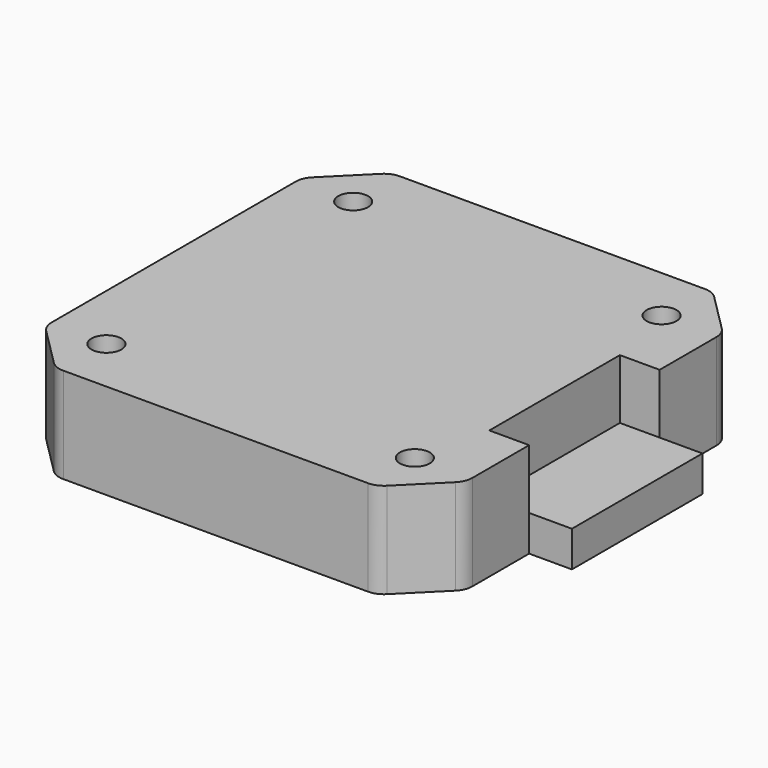
from build123d import *

# Parameters (mm, degrees)
SKETCH042_W         = 42.3
SKETCH042_H         = 42.3
PAD020_DEPTH        = 9.6
SKETCH044_W         = 4.3
SKETCH044_H         = 16.4
PAD017_DEPTH        = 3.6
CHAMFER011_SIZE     = 5
FILLET008_R         = 2
HOLE001_D           = 3
HOLE001_DEPTH       = 25
HOLE001_CBORE_D     = 5
HOLE001_CBORE_DEPTH = 5
SKETCH059_W         = 16.4
SKETCH059_H         = 6
POCKET017_DEPTH     = 4


with BuildPart() as part:
    # Sketch042 → Pad020 (new body)
    with BuildSketch(Plane.XY):
        Rectangle(SKETCH042_W, SKETCH042_H)
    extrude(amount=PAD020_DEPTH)

    # Sketch044 → Pad017 (join)
    with BuildSketch(Plane.XY):
        with Locations((23.3, 0)):
            Rectangle(SKETCH044_W, SKETCH044_H)
    extrude(amount=PAD017_DEPTH)

    # Chamfer011
    chamfer011_edges = [part.edges().sort_by_distance(p)[0] for p in [
        (21.15, -21.15, 4.8),
        (-21.15, -21.15, 4.8),
        (-21.15, 21.15, 4.8),
        (21.15, 21.15, 4.8),
    ]]
    chamfer(chamfer011_edges, length=CHAMFER011_SIZE)

    # Fillet008
    fillet008_edges = [part.edges().sort_by_distance(p)[0] for p in [
        (16.15, -21.15, 4.8),
        (21.15, -16.15, 4.8),
        (21.15, 16.15, 4.8),
        (16.15, 21.15, 4.8),
        (-16.15, 21.15, 4.8),
        (-21.15, 16.15, 4.8),
        (-16.15, -21.15, 4.8),
        (-21.15, -16.15, 4.8),
    ]]
    fillet(fillet008_edges, radius=FILLET008_R)

    # Hole001
    with Locations(Plane(origin=(0, 0, 0), x_dir=(1, 0, 0), z_dir=(0, 0, -1))):
        with Locations((-15.5, 15.5), (15.5, 15.5), (15.5, -15.5), (-15.5, -15.5)):
            CounterBoreHole(HOLE001_D / 2, HOLE001_CBORE_D / 2, HOLE001_CBORE_DEPTH, depth=HOLE001_DEPTH)

    # Sketch059 (on Face11 of Hole001) → Pocket017 (cut)
    with BuildSketch(Plane.YZ.offset(21.15)):
        with Locations((0, 6.6)):
            Rectangle(SKETCH059_W, SKETCH059_H)
    extrude(amount=-POCKET017_DEPTH, mode=Mode.SUBTRACT)


solid = part.part
